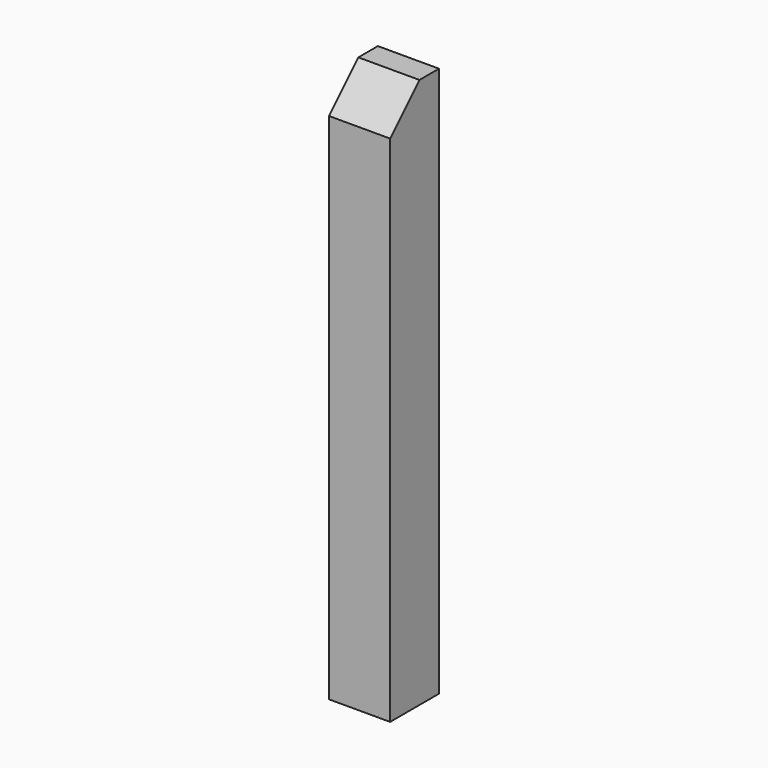
from build123d import *

# Parameters (mm, degrees)
F0_W          = 200
F0_H          = 200
F1_DEPTH      = 1000
F1_DEPTH_BACK = 800
F2_SIZE       = 120


with BuildPart() as f1:
    # F0 (on Top) → F1 (new body, two sides)
    with BuildSketch(Plane.XY) as f1_sk:
        Rectangle(F0_W, F0_H)
    extrude(amount=F1_DEPTH)
    extrude(f1_sk.sketch, amount=-F1_DEPTH_BACK)

    # F2
    f2_edges = [f1.edges().sort_by_distance(p)[0] for p in [
        (0, -100, 1000),
    ]]
    chamfer(f2_edges, length=F2_SIZE)


solid = f1.part
